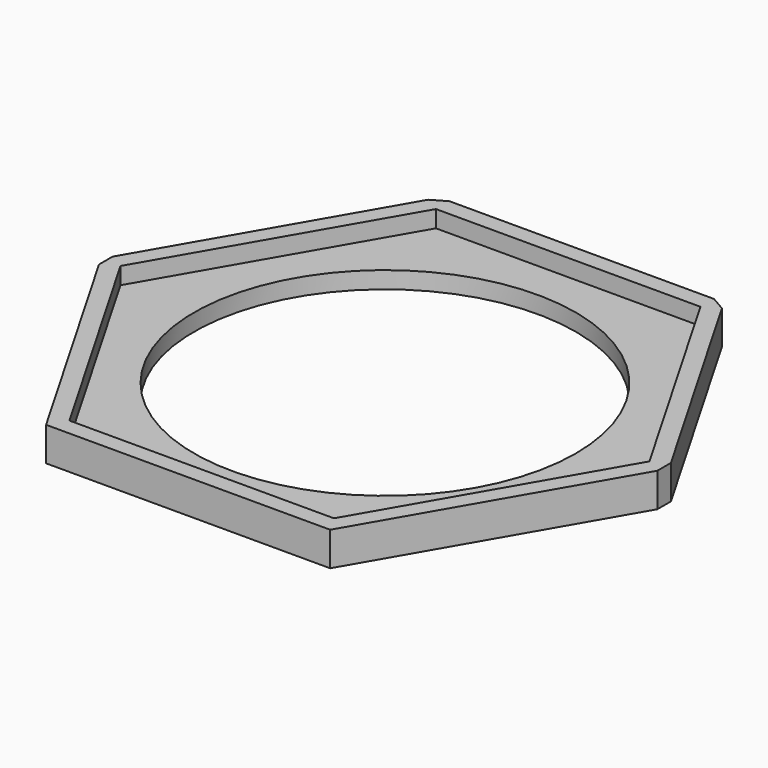
from build123d import *

# Parameters (mm, degrees)
F0_R     = 22.5
F1_DEPTH = 2
F2_DEPTH = 4


with BuildPart() as f1:
    # F0 (on Top) → F1 (new body)
    with BuildSketch(Plane.XY):
        Polygon((-64.998752, -6.673834), (-80.587193, -33.673844), (-64.998718, -60.673834), (-33.821804, -60.673814), (-18.233363, -33.673804), (-33.821838, -6.673814), align=None)
        with Locations((-49.410278, -33.673824)):
            Circle(F0_R, mode=Mode.SUBTRACT)
    extrude(amount=F1_DEPTH)

    # F0 (on Top) → F2 (join)
    with BuildSketch(Plane.XY):
        Polygon((-66.153417, -62.673834), (-32.667102, -62.673813), (-16.501312, -34.673803), (-16.501313, -32.673803), (-32.089788, -5.673813), (-33.821839, -4.673814), (-64.998754, -4.673834), (-66.730804, -5.673835), (-82.319244, -32.673845), (-82.319243, -34.673845), align=None)
        Polygon((-64.998718, -60.673834), (-80.587193, -33.673844), (-64.998752, -6.673834), (-33.821838, -6.673814), (-18.233363, -33.673804), (-33.821804, -60.673814), align=None, mode=Mode.SUBTRACT)
    extrude(amount=F2_DEPTH)


solid = f1.part
